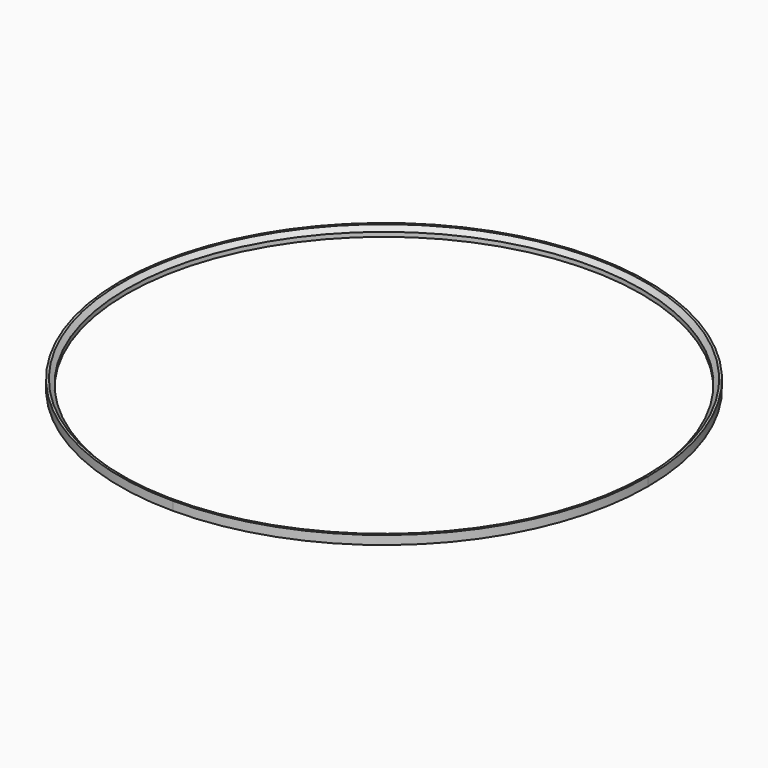
from build123d import *

# Parameters (mm, degrees)
F0_R     = 29.25
F1_DEPTH = 1
F2_SIZE  = 0.5


with BuildPart() as f1:
    # F0 (on Top) → F1 (new body)
    with BuildSketch(Plane.XY):
        with BuildLine():
            ThreePointArc((30, 0), (21.213203, 21.213203), (0, 30))
            ThreePointArc((0, 30), (-21.213203, 21.213203), (-30, 0))
            ThreePointArc((-30, 0), (-21.213203, -21.213203), (0, -30))
            ThreePointArc((0, -30), (21.213203, -21.213203), (30, 0))
        make_face()
        Circle(F0_R, mode=Mode.SUBTRACT)
    extrude(amount=F1_DEPTH)

    # F2
    f2_edges = [f1.edges().sort_by_distance(p)[0] for p in [
        (-29.25, 0, 1),
    ]]
    chamfer(f2_edges, length=F2_SIZE)


solid = f1.part
